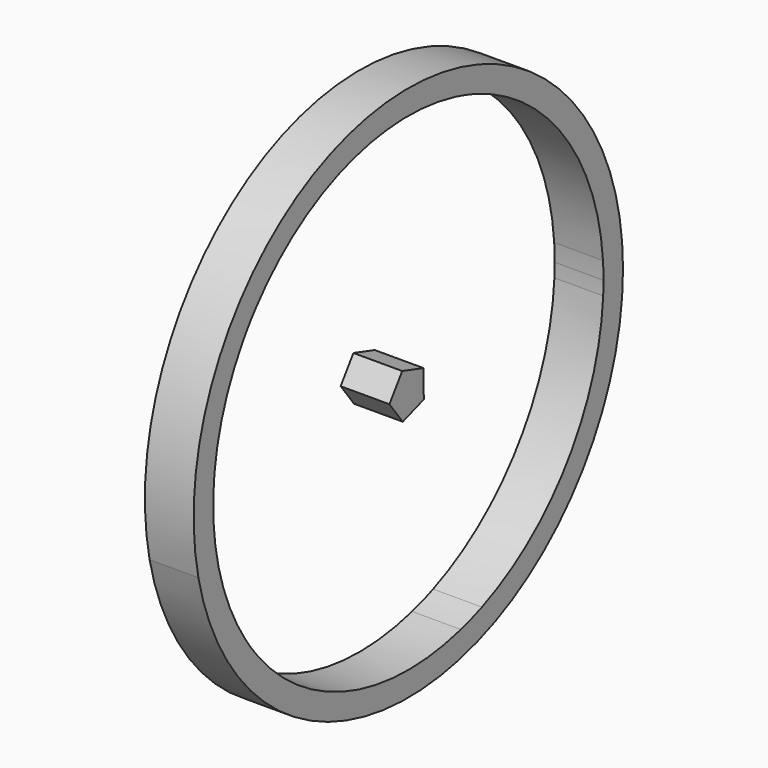
from build123d import *

# Parameters (mm, degrees)
F1_DEPTH = 25.4


with BuildPart() as f1:
    # F0 (on Right) → F1 (new body)
    with BuildSketch(Plane.YZ):
        with BuildLine():
            ThreePointArc((-147.984104, 9.340511), (3.304605, -100.410301), (128.33508, 38.51736))
            ThreePointArc((128.33508, 38.51736), (-26.034446, 177.445021), (-147.984104, 9.340511))
        make_face()
        with BuildLine():
            ThreePointArc((-108.448081, -43.359743), (-112.954895, -37.696005), (-117.131731, -31.784715))
            ThreePointArc((-117.131731, -31.784715), (-138.350028, 36.572542), (-119.235018, 105.547516))
            ThreePointArc((-119.235018, 105.547516), (-115.241166, 111.583943), (-110.909908, 117.383039))
            ThreePointArc((-110.909908, 117.383039), (-52.455108, 158.686392), (19.050854, 161.821377))
            ThreePointArc((19.050854, 161.821377), (26.026005, 159.888356), (32.879705, 157.561104))
            ThreePointArc((32.879705, 157.561104), (90.225055, 114.730724), (115.30316, 47.693277))
            ThreePointArc((115.30316, 47.693277), (115.552073, 43.108319), (115.63508, 38.51736))
            ThreePointArc((115.63508, 38.51736), (115.58567, 34.975101), (115.43748, 31.435598))
            ThreePointArc((115.43748, 31.435598), (91.993453, -35.279975), (36.504485, -79.115629))
            ThreePointArc((36.504485, -79.115629), (29.725268, -81.651673), (22.812584, -83.797391))
            ThreePointArc((22.812584, -83.797391), (-48.755845, -82.853637), (-108.448081, -43.359743))
        make_face(mode=Mode.SUBTRACT)
        Polygon((-15.347465, 50.164386), (-23.672575, 38.328864), (-14.988924, 26.753836), (-1.297023, 31.435598), (-1.518613, 45.904114), align=None)
    extrude(amount=F1_DEPTH)


solid = f1.part
